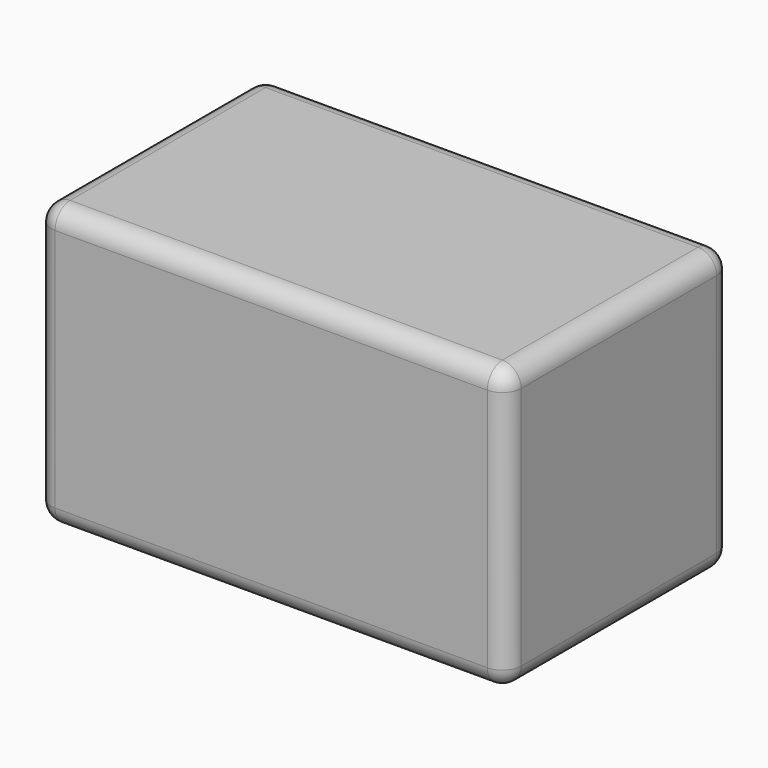
from build123d import *

# Parameters (mm, degrees)
F0_W     = 127
F0_H     = 76.2
F1_DEPTH = 76.2
F2_R     = 5.08
F3_R     = 5.08
F4_R     = 5.08
F5_R     = 5.08
F6_R     = 5.08


with BuildPart() as f1:
    # F0 (on Front) → F1 (new body)
    with BuildSketch(Plane.XZ):
        with Locations((63.5, 38.1)):
            Rectangle(F0_W, F0_H)
    extrude(amount=F1_DEPTH)

    # F2
    f2_edges = [f1.edges().sort_by_distance(p)[0] for p in [
        (63.5, 0, 76.2),
    ]]
    fillet(f2_edges, radius=F2_R)

    # F3
    f3_edges = [f1.edges().sort_by_distance(p)[0] for p in [
        (0, -40.64, 76.2),
    ]]
    fillet(f3_edges, radius=F3_R)

    # F4
    f4_edges = [f1.edges().sort_by_distance(p)[0] for p in [
        (66.04, -76.2, 76.2),
    ]]
    fillet(f4_edges, radius=F4_R)

    # F5
    f5_edges = [f1.edges().sort_by_distance(p)[0] for p in [
        (127, -38.1, 76.2),
    ]]
    fillet(f5_edges, radius=F5_R)

    # F6
    f6_edges = [f1.edges().sort_by_distance(p)[0] for p in [
        (63.5, -76.2, 0),
    ]]
    fillet(f6_edges, radius=F6_R)


solid = f1.part
